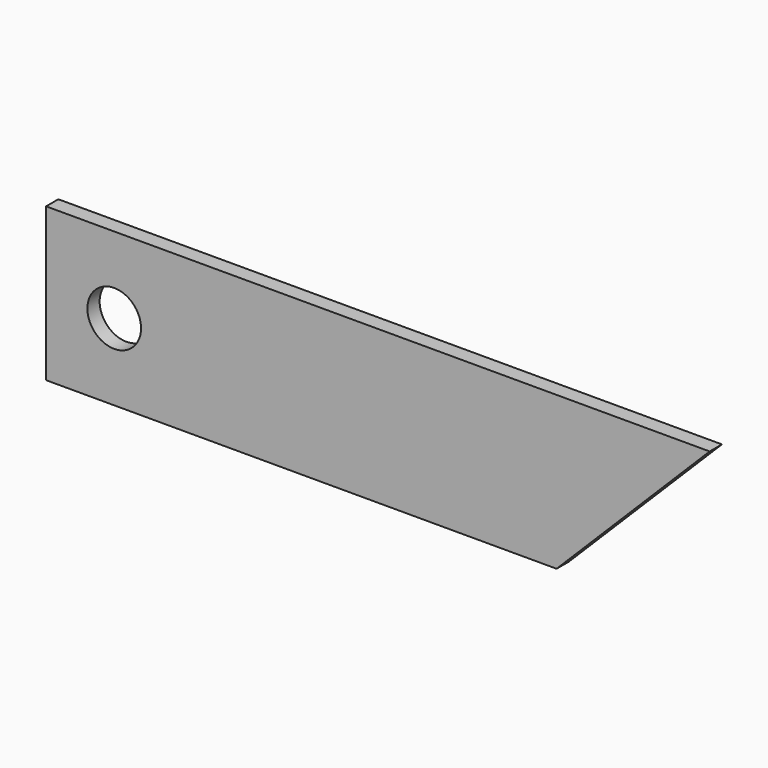
from build123d import *

# Parameters (mm, degrees)
SKETCH_R  = 17.5
PAD_DEPTH = 10


with BuildPart() as part:
    # Sketch → Pad (new body)
    with BuildSketch(Plane.XZ):
        Polygon((333.067415, 0), (432.926608, 99.859193), (0, 99.859193), (0, 0), align=None)
        with Locations((44.45, 49.929597)):
            Circle(SKETCH_R, mode=Mode.SUBTRACT)
    extrude(amount=PAD_DEPTH)


solid = part.part
